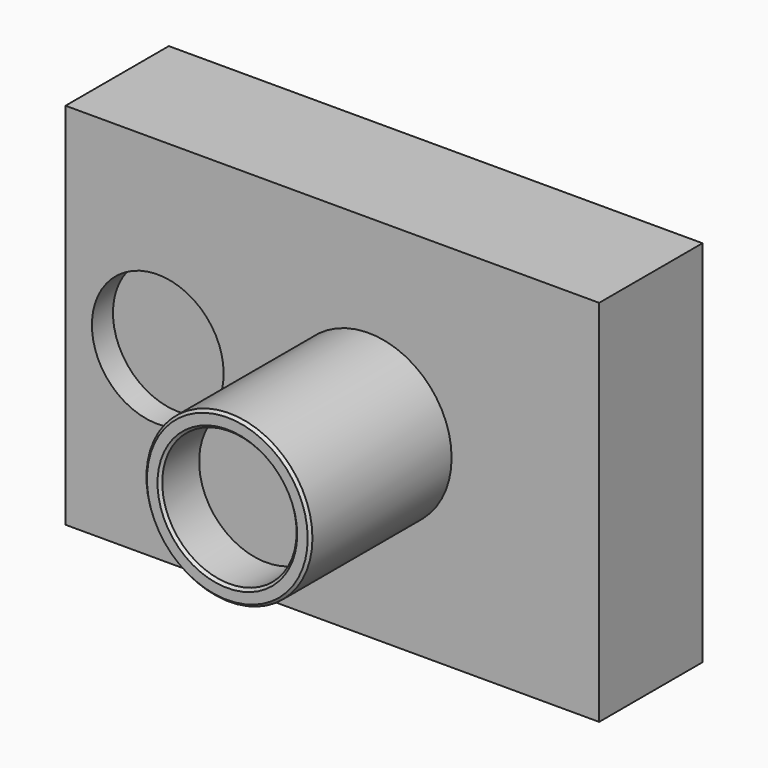
from build123d import *

# Parameters (mm, degrees)
F0_W      = 40.5
F0_H      = 28
F1_DEPTH  = 9.8
F2_R      = 6.3
F2_R_2    = 5.1
F3_DEPTH  = 13.4
F3_FACE_R = 5.1
F4_DEPTH  = 9.7
F5_R      = 5
F6_DEPTH  = 2
F7_SIZE   = 0.2


with BuildPart() as f1:
    # F0 (on Front) → F1 (new body)
    with BuildSketch(Plane.XZ):
        with Locations((20.25, -14)):
            Rectangle(F0_W, F0_H)
    extrude(amount=F1_DEPTH)

    # F2 (on face) → F3 (join)
    with BuildSketch(Plane.XZ.offset(9.8)):
        with Locations((23, -14)):
            Circle(F2_R)
        with Locations((23, -14)):
            Circle(F2_R_2, mode=Mode.SUBTRACT)
    extrude(amount=F3_DEPTH)

    # F3_face (on face) → F4 (join)
    with BuildSketch(Plane(origin=(23, -9.8, -14), x_dir=(1, 0, 0), z_dir=(0, -1, 0))):
        Circle(F3_FACE_R)
    extrude(amount=F4_DEPTH)

    # F5 (on face) → F6 (cut)
    with BuildSketch(Plane.XZ.offset(9.8)):
        with Locations((7, -14)):
            Circle(F5_R)
    extrude(amount=-F6_DEPTH, mode=Mode.SUBTRACT)

    # F7
    f7_edges = [f1.edges().sort_by_distance(p)[0] for p in [
        (17.9, -23.2, -14),
        (16.7, -23.2, -14),
    ]]
    chamfer(f7_edges, length=F7_SIZE)


solid = f1.part
